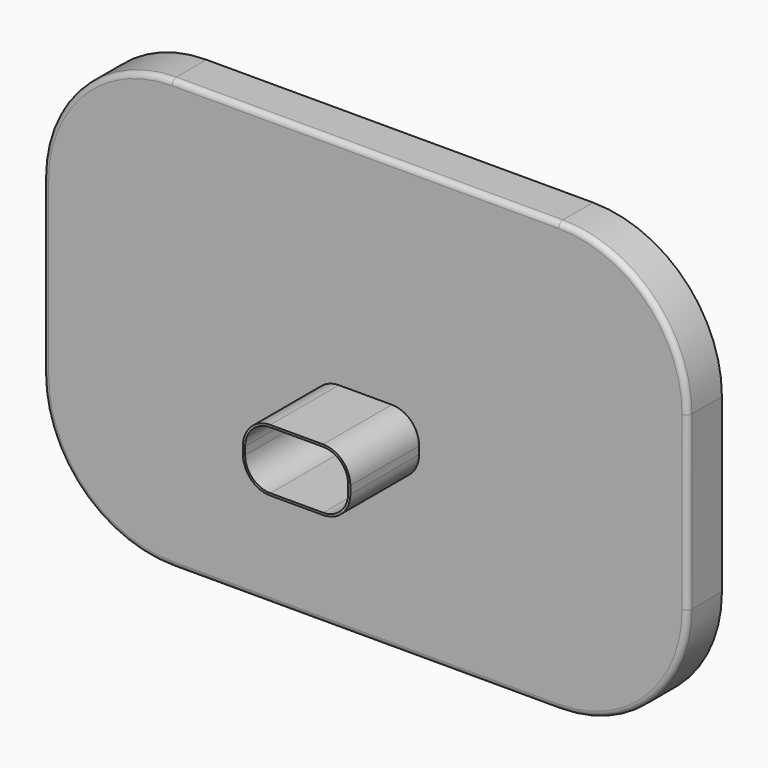
from build123d import *

# Parameters (mm, degrees)
F1_DEPTH = 20
F3_DEPTH = 40
F4_T     = -1
F5_R     = 2.54


with BuildPart() as f1:
    # F0 (on Front) → F1 (new body)
    with BuildSketch(Plane.XZ):
        with BuildLine():
            ThreePointArc((0, 60), (17.5735931288, 17.5735931288), (60, 0))
            Line((60, 0), (240, 0))
            ThreePointArc((240, 0), (282.4264068712, 17.5735931288), (300, 60))
            Line((300, 60), (300, 140))
            ThreePointArc((300, 140), (282.4264068712, 182.4264068712), (240, 200))
            Line((240, 200), (60, 200))
            ThreePointArc((60, 200), (17.5735931288, 182.4264068712), (0, 140))
            Line((0, 140), (0, 60))
        make_face()
    extrude(amount=F1_DEPTH)

    # F2 (on face) → F3 (join)
    with BuildSketch(Plane.XZ.offset(20)):
        with BuildLine():
            Line((175, 83.7), (175, 85.5))
            Line((175, 85.5), (175, 87.3))
            ThreePointArc((175, 87.3), (171.2802561211, 96.2802561211), (162.3, 100))
            Line((162.3, 100), (150, 100))
            Line((150, 100), (137.7, 100))
            ThreePointArc((137.7, 100), (128.7197438789, 96.2802561211), (125, 87.3))
            Line((125, 87.3), (125, 85.5))
            Line((125, 85.5), (125, 83.7))
            ThreePointArc((125, 83.7), (128.7197438789, 74.7197438789), (137.7, 71))
            Line((137.7, 71), (162.3, 71))
            ThreePointArc((162.3, 71), (171.2802561211, 74.7197438789), (175, 83.7))
        make_face()
    extrude(amount=F3_DEPTH)

    # F4
    f4_openings = [f1.faces().sort_by_distance(p)[0] for p in [
        (150, -60, 85.5),
    ]]
    offset(amount=F4_T, openings=f4_openings, kind=Kind.INTERSECTION)

    # F5
    f5_edges = [f1.edges().sort_by_distance(p)[0] for p in [
        (300, -20, 100),
        (150, -20, 200),
        (0, -20, 100),
        (150, -20, 0),
    ]]
    fillet(f5_edges, radius=F5_R)


solid = f1.part
